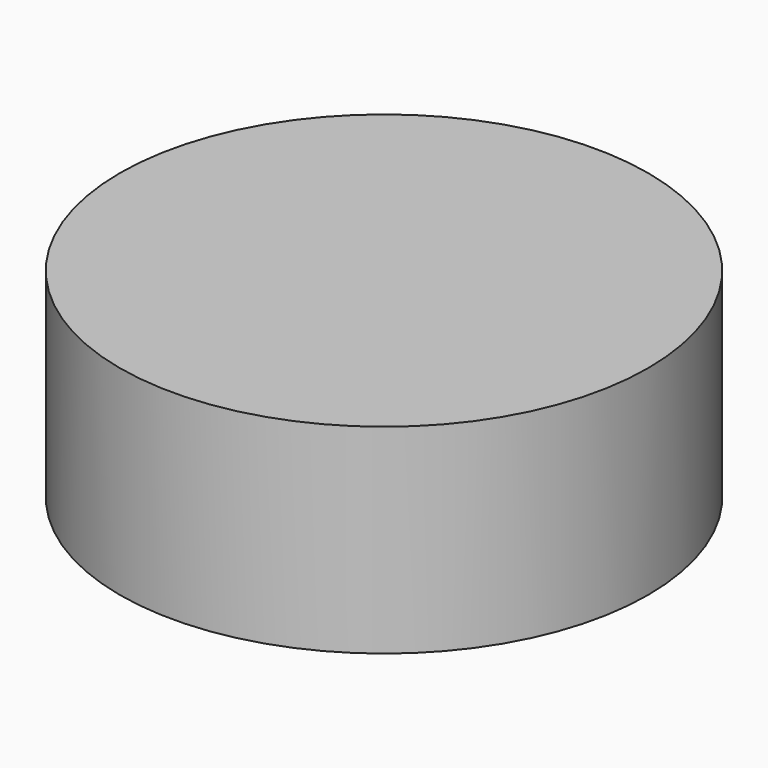
from build123d import *

# Parameters (mm, degrees)
CYLINDER_R     = 19.8374
CYLINDER_DEPTH = 15


with BuildPart() as part:
    # Cylinder → Cylinder (new body)
    with BuildSketch(Plane.XY.offset(-2.5)):
        Circle(CYLINDER_R)
    extrude(amount=CYLINDER_DEPTH)


solid = part.part
